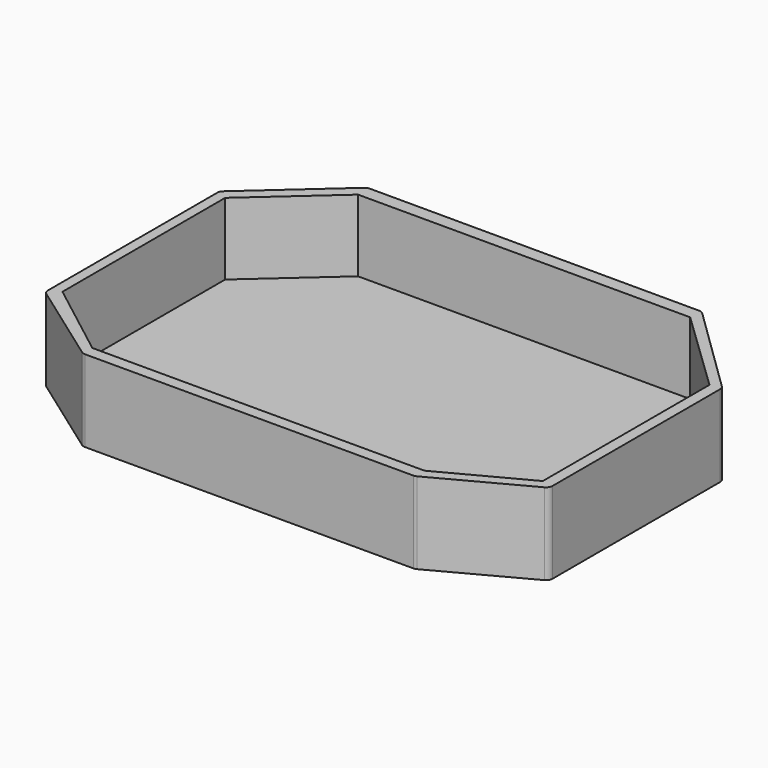
from build123d import *

# Parameters (mm, degrees)
F0_W     = 101.6
F0_H     = 101.6
F1_DEPTH = 3
F2_DEPTH = 25
F3_R     = 2


with BuildPart() as f1:
    # F0 (on Top) → F1 (new body)
    with BuildSketch(Plane.XY):
        Polygon((-50.8, -50.8), (-50.8, 50.8), (-74.547097, 29.664359), (-74.547097, -32.537002), align=None)
        Rectangle(F0_W, F0_H)
        Polygon((76.217584, 26.386153), (50.8, 50.8), (50.8, -50.8), (76.217584, -37.332729), align=None)
    extrude(amount=F1_DEPTH)

    # F0 (on Top) → F2 (join)
    with BuildSketch(Plane.XY):
        Polygon((-51.30187, 54.977957), (-77.688023, 31.450987), (-77.688023, -35.208765), (-50.8, -54.43063), (50.8, -54.43063), (79.613134, -39.051957), (79.613134, 27.056271), (51.138487, 54.814577), align=None)
        Polygon((-74.547097, 29.664359), (-50.8, 50.8), (50.8, 50.8), (76.217584, 26.386153), (76.217584, -37.332729), (50.8, -50.8), (-50.8, -50.8), (-74.547097, -32.537002), align=None, mode=Mode.SUBTRACT)
    extrude(amount=F2_DEPTH)

    # F3
    f3_edges = [f1.edges().sort_by_distance(p)[0] for p in [
        (-50.8, -54.43063, 12.5),
        (-77.688023, -35.208765, 12.5),
        (50.8, -54.43063, 12.5),
        (79.613134, -39.051957, 12.5),
        (79.613134, 27.056271, 12.5),
        (51.138487, 54.814577, 12.5),
        (-51.30187, 54.977957, 12.5),
        (-77.688023, 31.450987, 12.5),
    ]]
    fillet(f3_edges, radius=F3_R)


solid = f1.part
